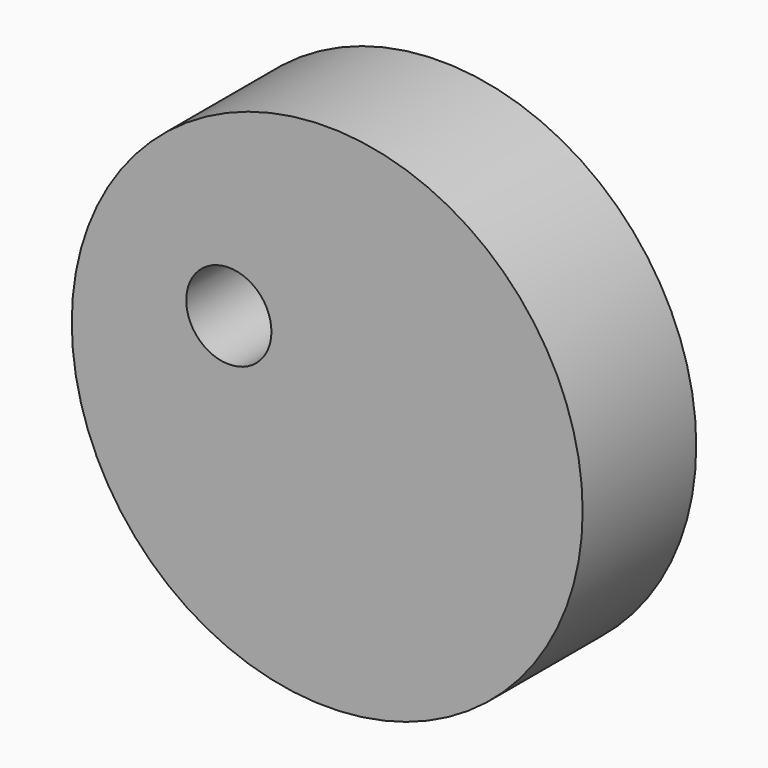
from build123d import *

# Parameters (mm, degrees)
F0_R     = 44.979185
F1_DEPTH = 25
F2_R     = 7.5
F3_DEPTH = 25


with BuildPart() as f1:
    # F0 (on Front) → F1 (new body)
    with BuildSketch(Plane.XZ):
        Circle(F0_R)
    extrude(amount=F1_DEPTH)

    # F2 (on face) → F3 (cut)
    with BuildSketch(Plane.XZ.offset(25)):
        with Locations((-17.320508, 10)):
            Circle(F2_R)
    extrude(amount=-F3_DEPTH, mode=Mode.SUBTRACT)


solid = f1.part
